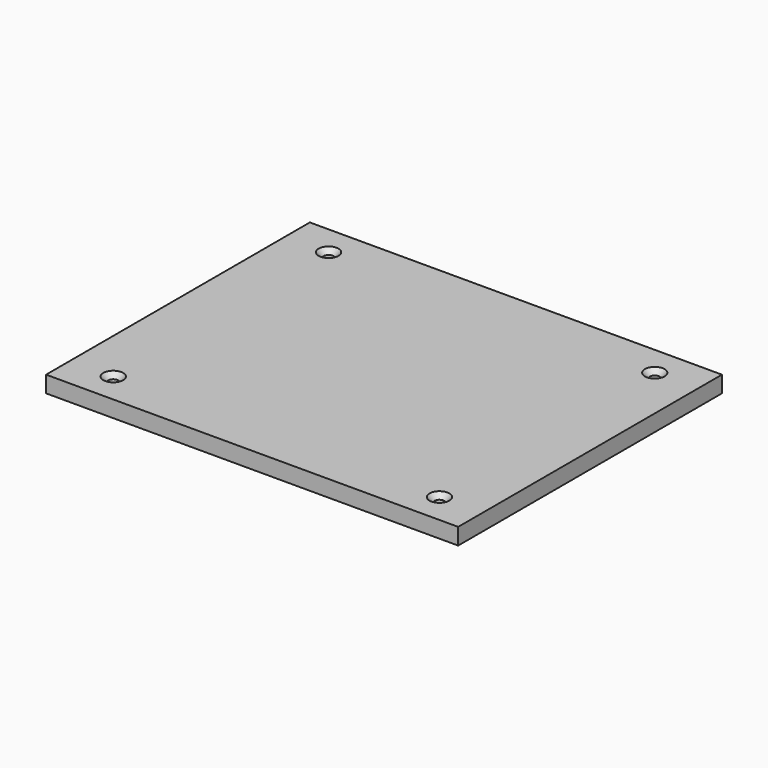
from build123d import *

# Parameters (mm, degrees)
F0_W           = 250
F0_H           = 200
F1_DEPTH       = 10
F3_D           = 6
F3_CSINK_D     = 12
F3_CSINK_ANGLE = 90
F4_W           = 50
F4_H           = 10
F5_DEPTH       = 10


with BuildPart() as f1:
    # F0 (on Top) → F1 (new body)
    with BuildSketch(Plane.XY):
        Rectangle(F0_W, F0_H)
    extrude(amount=F1_DEPTH)

    # F3 (through all)
    with Locations(Plane.XY.offset(10)):
        with Locations((-98.94, 81.645), (98.94, 81.645), (98.94, -81.645), (-98.94, -81.645)):
            CounterSinkHole(F3_D / 2, F3_CSINK_D / 2, counter_sink_angle=F3_CSINK_ANGLE)

    # F4 (on Top) → F5 (join)
    with BuildSketch(Plane.XY):
        Rectangle(F4_W, F4_H)
    extrude(amount=-F5_DEPTH)


solid = f1.part
